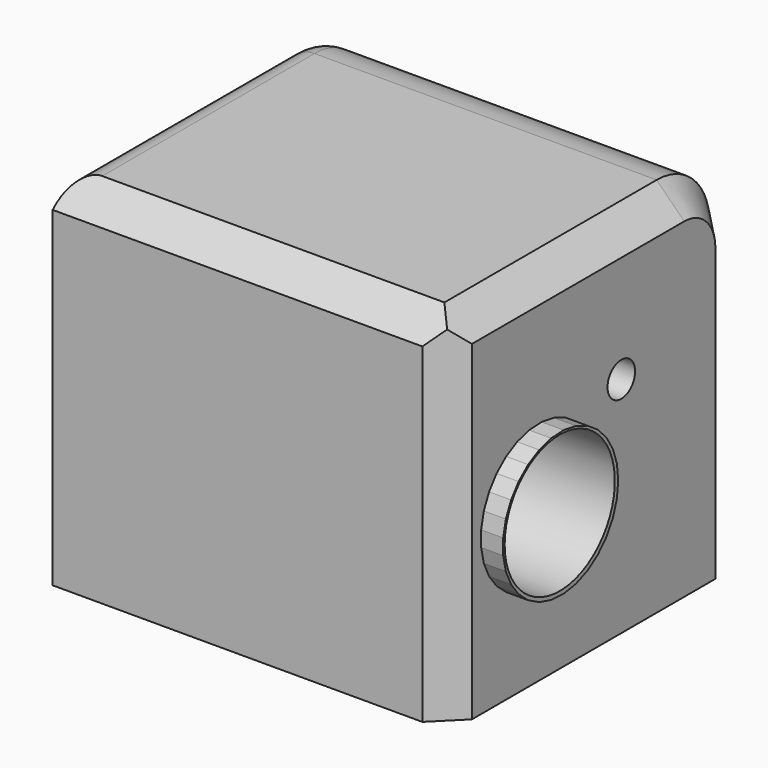
from build123d import *

# Parameters (mm, degrees)
F0_W      = 73.2621699572
F0_H      = 66.2733446807
F1_DEPTH  = 66.04
F2_R      = 12.2642048969
F4_D      = 6.35
F5_SIZE   = 5.08
F6_SIZE   = 5.08
F7_SIZE   = 5.08
F8_R      = 5.08
F10_DEPTH = 4.064
F12_D     = 25.4


with BuildPart() as f1:
    # F0 (on Top) → F1 (new body)
    with BuildSketch(Plane.XY):
        with Locations((2.2894442081, 5.3018676117)):
            Rectangle(F0_W, F0_H)
    extrude(amount=F1_DEPTH)

    # F2
    f2_edges = [f1.edges().sort_by_distance(p)[0] for p in [
        (2.289444, 38.43854, 66.04),
    ]]
    fillet(f2_edges, radius=F2_R)

    # F4 (through all)
    with Locations(Plane(origin=(-34.3416407704, 0, 0), x_dir=(0, -1, 0), z_dir=(-1, 0, 0))):
        with Locations((-11.6805844009, 41.2179939449)):
            Hole(F4_D / 2)

    # F5
    f5_edges = [f1.edges().sort_by_distance(p)[0] for p in [
        (2.289444, -27.834805, 66.04),
    ]]
    chamfer(f5_edges, length=F5_SIZE)

    # F6
    f6_edges = [f1.edges().sort_by_distance(p)[0] for p in [
        (38.920529, -27.834805, 30.48),
    ]]
    chamfer(f6_edges, length=F6_SIZE)

    # F7
    f7_edges = [f1.edges().sort_by_distance(p)[0] for p in [
        (38.920529, 34.846438, 62.447898),
    ]]
    chamfer(f7_edges, length=F7_SIZE)

    # F8
    f8_edges = [f1.edges().sort_by_distance(p)[0] for p in [
        (-34.341641, 34.846438, 62.447898),
    ]]
    fillet(f8_edges, radius=F8_R)

    # F9 (on face) → F10 (join)
    with BuildSketch(Plane.YZ.offset(38.9205291867)):
        Polygon((-1.1907316289, 16.7186320739), (1.1907316289, 18.3312571628), (3.169850874, 20.4181241781), (4.6540846899, 22.8816535376), (5.5740319532, 25.6066533465), (5.8866769522, 28.4657056424), (5.5774007542, 31.3251243174), (4.6606647705, 34.0512061324), (3.1793345569, 36.5164825315), (1.2026754677, 38.6056799302), (-1.1768861149, 40.2211097802), (-3.848084536, 41.2872363771), (-6.6860175264, 41.7542088262), (-9.5579864934, 41.6001920146), (-12.3297013601, 40.8323875974), (-14.87155982, 39.4866972558), (-17.0647073965, 37.6260439744), (-18.8065949465, 35.3374298329), (-20.015773744, 32.7278678847), (-20.6357039325, 29.9193783463), (-20.6373982652, 27.0432830671), (-20.0207775172, 24.2340650658), (-18.8146741891, 21.623080254), (-17.0754843323, 19.3324153794), (-14.8845305313, 17.4691793858), (-12.3442593509, 16.1204951174), (-9.5734510482, 15.3494255516), (-6.7016655399, 15.1920250443), (-3.8631843245, 15.6556534684), align=None)
    extrude(amount=F10_DEPTH)

    # F12 (through all)
    with Locations(Plane.YZ.offset(42.9845291867)):
        with Locations((-7.5925402343, 28.6855231971)):
            Hole(F12_D / 2)


solid = f1.part
